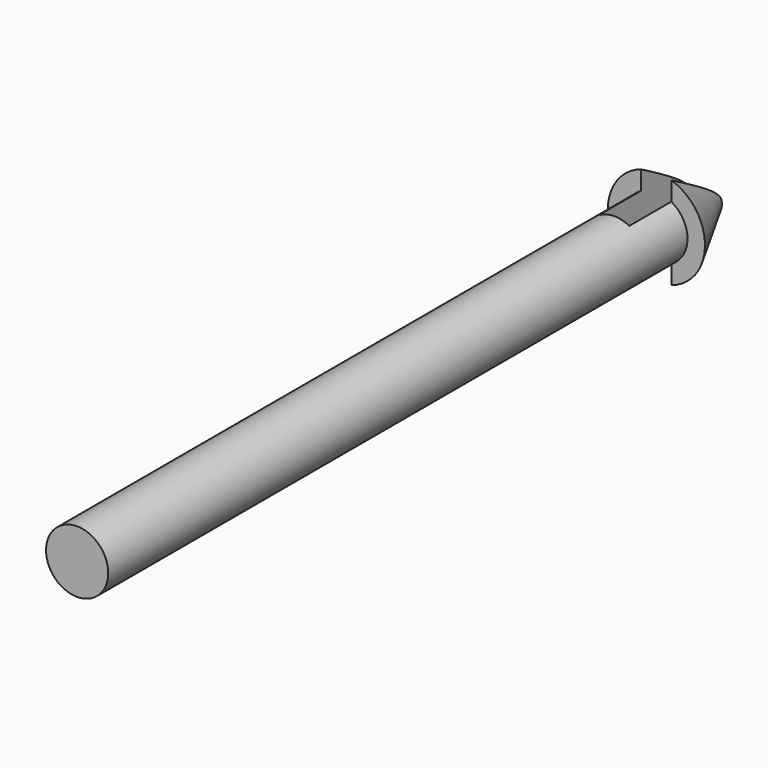
from build123d import *

# Parameters (mm, degrees)
F0_R     = 3
F1_DEPTH = 69.85
F5_DEPTH = 25
F6_DEPTH = 10.9
F8_DEPTH = 25
F9_DEPTH = 25


with BuildPart() as f1:
    # F0 (on Front) → F1 (new body)
    with BuildSketch(Plane.XZ):
        Circle(F0_R)
    extrude(amount=F1_DEPTH)

    # F2 (on Top) → F3 (revolve)
    with BuildSketch(Plane.XY):
        Polygon((-4.683842, 0), (0, 0), (0, 8.863604), align=None)
    revolve(axis=Axis((0, 4.431802, 0), (0, 1, 0)))

    # F4 (on Top) → F5 (cut)
    with BuildSketch(Plane.XY):
        Polygon((1.431932, 6.093189), (-1.507714, 6.047257), (-1.507714, -5.068278), (1.431932, -5.068278), align=None)
    extrude(amount=-F5_DEPTH, mode=Mode.SUBTRACT)

    # F4 (on Top) → F6 (cut)
    with BuildSketch(Plane.XY):
        Polygon((1.431932, 6.093189), (-1.507714, 6.047257), (-1.507714, -5.068278), (1.431932, -5.068278), align=None)
    extrude(amount=F6_DEPTH, mode=Mode.SUBTRACT)

    # F7 (on Top) → F8 (cut)
    with BuildSketch(Plane.XY):
        Polygon((0, 8.892538), (-1.547059, 5.977397), (1.504442, 6.018774), align=None)
    extrude(amount=-F8_DEPTH, mode=Mode.SUBTRACT)

    # F7 (on Top) → F9 (cut)
    with BuildSketch(Plane.XY):
        Polygon((0, 8.892538), (-1.547059, 5.977397), (1.504442, 6.018774), align=None)
    extrude(amount=F9_DEPTH, mode=Mode.SUBTRACT)


solid = f1.part
